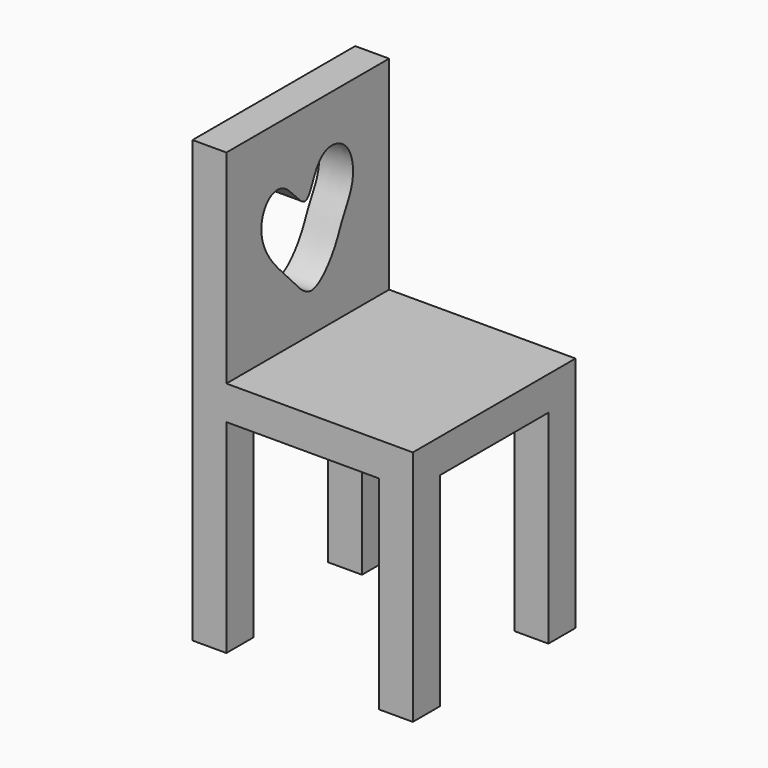
from build123d import *

# Parameters (mm, degrees)
F1_DEPTH = 76.2
F3_DEPTH = 12.7
F4_W     = 50.8
F4_H     = 76.2
F5_DEPTH = 12.7
F6_W     = 50.8
F6_H     = 76.2
F7_DEPTH = 12.7


with BuildPart() as f1:
    # F0 (on Front) → F1 (new body)
    with BuildSketch(Plane.XZ):
        Polygon((-12.7, 0), (0, 0), (0, 88.9), (-69.85, 88.9), (-69.85, 165.1), (-82.55, 165.1), (-82.55, 0), (-69.85, 0), (-69.85, 76.2), (-12.7, 76.2), align=None)
    extrude(amount=F1_DEPTH)

    # F2 (on face) → F3 (cut)
    with BuildSketch(Plane.YZ.offset(-69.85)):
        with BuildLine():
            add(Edge.make_bspline(
                [(-39.393492043, 134.0616643429), (-41.7653817973, 134.0519704591), (-48.0807223106, 144.5784906297), (-57.6687769822, 142.4438535389), (-61.2772946483, 132.1916628552), (-55.946945606, 120.4377708591), (-46.1907438844, 111.5819871786), (-36.3030491034, 98.9240075783), (-24.8231657039, 112.7896108933), (-22.4661020374, 120.9061781194), (-15.391144399, 131.3461939587), (-18.2068658762, 145.5256129763), (-29.0915819632, 148.7973145161), (-35.0789621304, 142.3066021107), (-37.4084824999, 134.069777052), (-39.393492043, 134.0616643429)],
                knots=[0, 0, 0, 0, 0.0824878816, 0.1474049882, 0.218965628, 0.3004592274, 0.388670531, 0.470601532, 0.5571987511, 0.6285678759, 0.70938938, 0.7929254096, 0.8626738507, 0.9309667611, 1, 1, 1, 1], degree=3))
        make_face()
    extrude(amount=-F3_DEPTH, mode=Mode.SUBTRACT)

    # F4 (on face) → F5 (cut)
    with BuildSketch(Plane.YZ):
        with Locations((-38.1, 38.1)):
            Rectangle(F4_W, F4_H)
    extrude(amount=-F5_DEPTH, mode=Mode.SUBTRACT)

    # F6 (on face) → F7 (cut)
    with BuildSketch(Plane(origin=(-82.55, 0, 0), x_dir=(0, -1, 0), z_dir=(-1, 0, 0))):
        with Locations((38.1, 38.1)):
            Rectangle(F6_W, F6_H)
    extrude(amount=-F7_DEPTH, mode=Mode.SUBTRACT)


solid = f1.part
